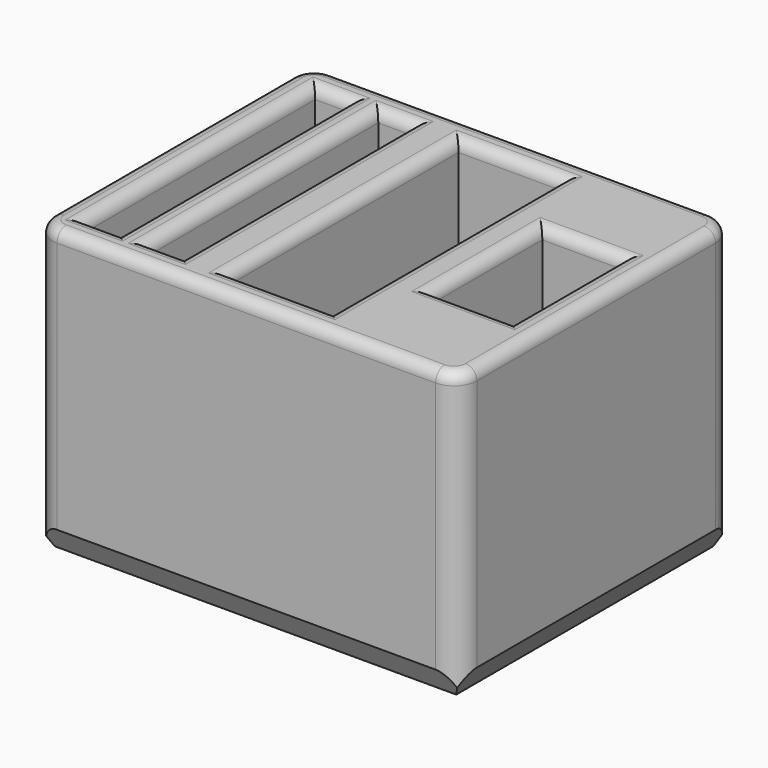
from build123d import *

# Parameters (mm, degrees)
F0_W     = 37
F0_H     = 30
F0_W_2   = 3
F0_H_2   = 25
F0_W_3   = 9
F0_W_4   = 7
F0_H_3   = 12
F1_DEPTH = 25
F2_DEPTH = 22.5
F3_SIZE2 = 2
F3_SIZE  = 1
F4_R     = 2
F5_R     = 1


with BuildPart() as f1:
    # F0 (on Top) → F1 (new body)
    with BuildSketch(Plane.XY):
        with Locations((-3.031099186, -1.2872133628)):
            Rectangle(F0_W, F0_H)
        with Locations((-17.531099186, -1.2872133628)):
            Rectangle(F0_W_2, F0_H_2, mode=Mode.SUBTRACT)
        with Locations((-12.031099186, -1.2872133628)):
            Rectangle(F0_W_2, F0_H_2, mode=Mode.SUBTRACT)
        with Locations((-2.031099186, -1.2872133628)):
            Rectangle(F0_W_3, F0_H_2, mode=Mode.SUBTRACT)
        with Locations((9.468900814, -1.2872133628)):
            Rectangle(F0_W_4, F0_H_3, mode=Mode.SUBTRACT)
        with Locations((-17.531099186, -1.2872133628)):
            Rectangle(F0_W_2, F0_H_2)
        with Locations((-12.031099186, -1.2872133628)):
            Rectangle(F0_W_2, F0_H_2)
        with Locations((-2.031099186, -1.2872133628)):
            Rectangle(F0_W_3, F0_H_2)
        with Locations((9.468900814, -1.2872133628)):
            Rectangle(F0_W_4, F0_H_3)
    extrude(amount=-F1_DEPTH)

    # F0 (on Top) → F2 (cut)
    with BuildSketch(Plane.XY):
        with Locations((-17.531099186, -1.2872133628)):
            Rectangle(F0_W_2, F0_H_2)
        with Locations((-12.031099186, -1.2872133628)):
            Rectangle(F0_W_2, F0_H_2)
        with Locations((-2.031099186, -1.2872133628)):
            Rectangle(F0_W_3, F0_H_2)
        with Locations((9.468900814, -1.2872133628)):
            Rectangle(F0_W_4, F0_H_3)
    extrude(amount=-F2_DEPTH, mode=Mode.SUBTRACT)

    # F3
    f3_edges = [f1.edges().sort_by_distance(p)[0] for p in [
        (-3.031099, -16.287213, -25),
        (15.468901, -1.287213, -25),
        (-3.031099, 13.712787, -25),
        (-21.531099, -1.287213, -25),
    ]]
    f3_side = f1.faces().sort_by_distance((-3.031099, -1.287213, -25))[0]
    chamfer(f3_edges, length=F3_SIZE, length2=F3_SIZE2, reference=f3_side)

    # F4
    f4_edges = [f1.edges().sort_by_distance(p)[0] for p in [
        (-21.531099, -16.287213, -11.5),
        (-21.531099, 13.712787, -11.5),
        (15.468901, 13.712787, -11.5),
        (15.468901, -16.287213, -11.5),
    ]]
    fillet(f4_edges, radius=F4_R)

    # F5
    f5_edges = [f1.edges().sort_by_distance(p)[0] for p in [
        (12.968901, -1.287213, 0),
        (9.468901, -7.287213, 0),
        (5.968901, -1.287213, 0),
        (9.468901, 4.712787, 0),
        (2.468901, -1.287213, 0),
        (-2.031099, -13.787213, 0),
        (-6.531099, -1.287213, 0),
        (-2.031099, 11.212787, 0),
        (-10.531099, -1.287213, 0),
        (-12.031099, -13.787213, 0),
        (-13.531099, -1.287213, 0),
        (-12.031099, 11.212787, 0),
        (-16.031099, -1.287213, 0),
        (-17.531099, 11.212787, 0),
        (-19.031099, -1.287213, 0),
        (-17.531099, -13.787213, 0),
        (-3.031099, 13.712787, 0),
    ]]
    fillet(f5_edges, radius=F5_R)


solid = f1.part
